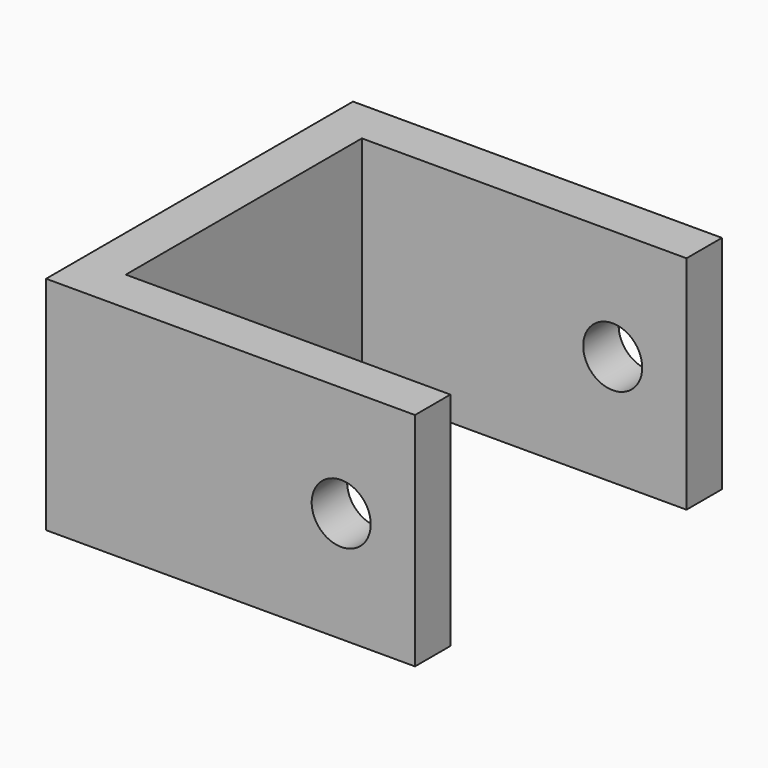
from build123d import *

# Parameters (mm, degrees)
F0_W     = 6
F0_H     = 40
F1_DEPTH = 30
F2_R     = 4
F3_DEPTH = 52.001


with BuildPart() as f1:
    # F0 (on Top) → F1 (new body)
    with BuildSketch(Plane.XY):
        with Locations((3, 20)):
            Rectangle(F0_W, F0_H)
        Polygon((6, 0), (0, 0), (0, -6), (50, -6), (50, 0), align=None)
        Polygon((0, 46), (0, 40), (6, 40), (50, 40), (50, 46), align=None)
    extrude(amount=F1_DEPTH)

    # F2 (on face) → F3 (cut, through all)
    with BuildSketch(Plane.XZ.offset(6)):
        with Locations((40, 15)):
            Circle(F2_R)
    extrude(amount=-F3_DEPTH, mode=Mode.SUBTRACT)


solid = f1.part
